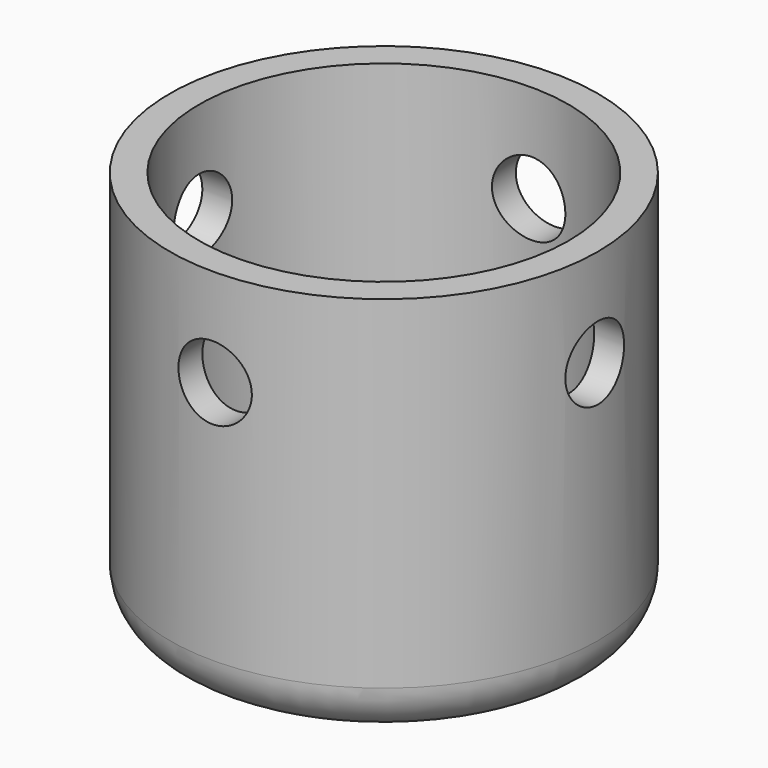
from build123d import *

# Parameters (mm, degrees)
F0_R          = 22.225
F1_DEPTH      = 40.64
F2_R          = 3.81
F3_DEPTH      = 40.641
F4_R          = 3.81
F5_DEPTH      = 22.226
F5_DEPTH_BACK = 22.226
F6_R          = 3.81
F7_DEPTH      = 22.2260001
F7_DEPTH_BACK = 22.2260001
F8_R          = 3.302
F9_DEPTH      = 40.6410001
F10_R         = 19.177
F11_DEPTH     = 38.735
F12_R         = 5.08


with BuildPart() as f1:
    # F0 (on Top) → F1 (new body)
    with BuildSketch(Plane.XY):
        Circle(F0_R)
    extrude(amount=-F1_DEPTH)

    # F2 (on face) → F3 (cut, through all)
    with BuildSketch(Plane(origin=(0, 0, -40.64), x_dir=(1, 0, 0), z_dir=(0, 0, -1))):
        Circle(F2_R)
    extrude(amount=-F3_DEPTH, mode=Mode.SUBTRACT)

    # F4 (on Right) → F5 (cut, two sides)
    with BuildSketch(Plane.YZ) as f5_sk:
        with Locations((0, -10.16)):
            Circle(F4_R)
    extrude(amount=-F5_DEPTH, mode=Mode.SUBTRACT)
    extrude(f5_sk.sketch, amount=F5_DEPTH_BACK, mode=Mode.SUBTRACT)

    # F6 (on Front) → F7 (cut, two sides)
    with BuildSketch(Plane.XZ) as f7_sk:
        with Locations((0, -10.16)):
            Circle(F6_R)
    extrude(amount=-F7_DEPTH, mode=Mode.SUBTRACT)
    extrude(f7_sk.sketch, amount=F7_DEPTH_BACK, mode=Mode.SUBTRACT)

    # F8 (on face) → F9 (cut, through all)
    with BuildSketch(Plane(origin=(0, 0, -40.64), x_dir=(1, 0, 0), z_dir=(0, 0, -1))):
        with Locations((10.922, 0)):
            Circle(F8_R)
        with Locations((-10.8710342307, 0)):
            Circle(F8_R)
    extrude(amount=-F9_DEPTH, mode=Mode.SUBTRACT)

    # F10 (on face) → F11 (cut)
    with BuildSketch(Plane.XY):
        Circle(F10_R)
    extrude(amount=-F11_DEPTH, mode=Mode.SUBTRACT)

    # F12
    f12_edges = [f1.edges().sort_by_distance(p)[0] for p in [
        (-22.225, 0, -40.64),
    ]]
    fillet(f12_edges, radius=F12_R)


solid = f1.part
